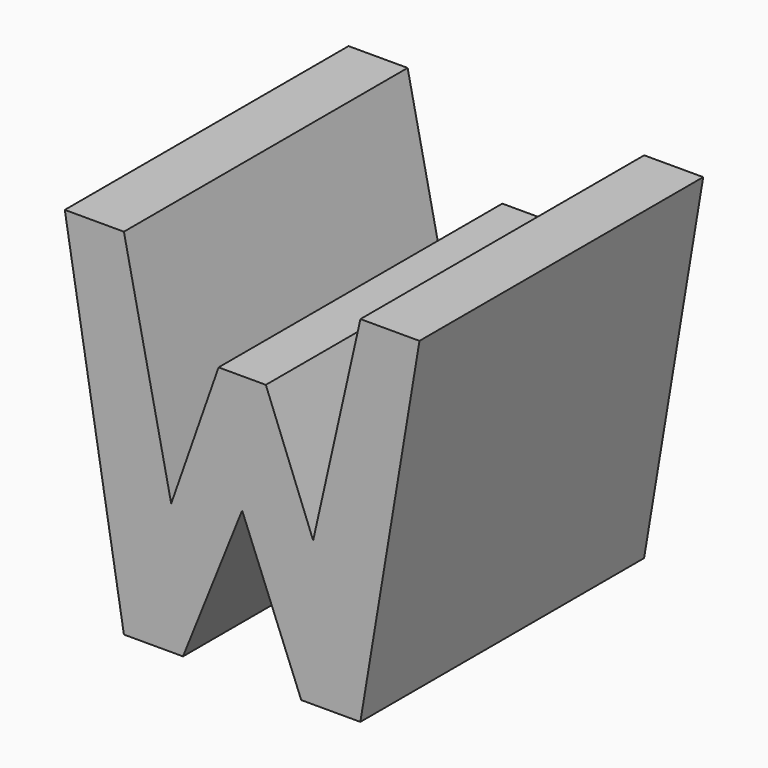
from build123d import *

# Parameters (mm, degrees)
F0_W     = 38.1
F0_H     = 38.1
F1_DEPTH = 38.1
F4_DEPTH = 38.1


with BuildPart() as f1:
    # F0 (on Front) → F1 (new body)
    with BuildSketch(Plane.XZ):
        with Locations((19.05, 19.05)):
            Rectangle(F0_W, F0_H)
    extrude(amount=F1_DEPTH)

    # F3 (on face) → F4 (cut)
    with BuildSketch(Plane.XZ.offset(38.1)):
        Polygon((31.757813, 38.1), (6.35, 38.1), (11.43, 14.032523), (16.517813, 28.575), (21.597813, 28.575), (26.677813, 15.509631), align=None)
        Polygon((6.35, 0), (0, 38.1), (0, 0), align=None)
        Polygon((19.05, 15.875), (12.7, 0), (25.4, 0), align=None)
        Polygon((38.1, 0), (38.1, 38.1), (31.75, 0), align=None)
    extrude(amount=-F4_DEPTH, mode=Mode.SUBTRACT)


solid = f1.part
